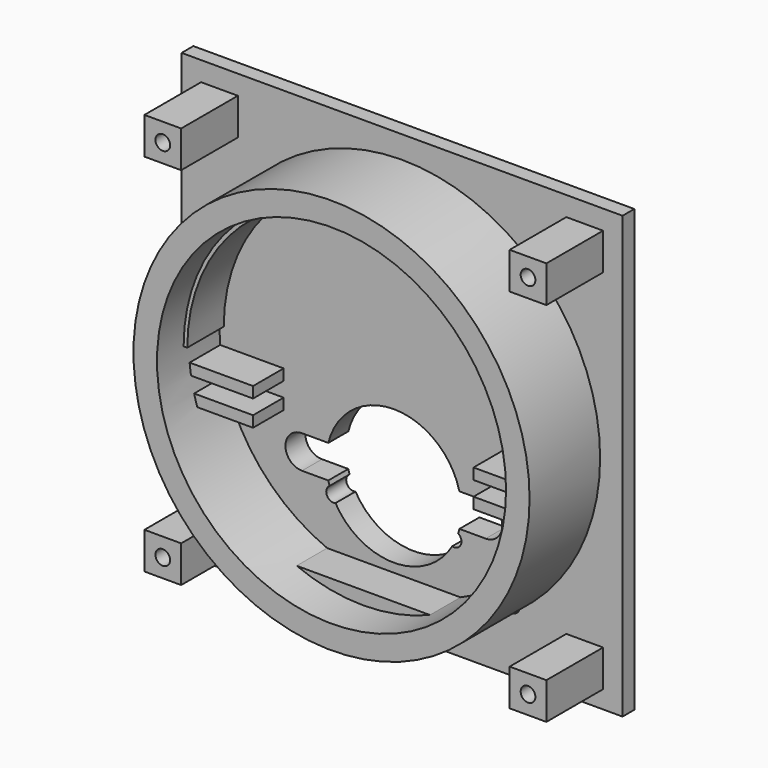
from build123d import *

# Parameters (mm, degrees)
F0_R      = 30.1625
F1_DEPTH  = 4.318
F2_D      = 2.54
F3_DEPTH  = 10.922
F4_R      = 34.2265
F4_R_2    = 30.1625
F5_DEPTH  = 17.78
F0_W      = 76.2
F0_H      = 76.2
F0_W_2    = 6.35
F0_H_2    = 6.35
F8_DEPTH  = 2.54
F10_DEPTH = 9.652
F11_R     = 1.27
F12_DEPTH = 3.048
F7_W      = 25.4
F7_H      = 2.54
F7_W_2    = 12.7
F7_H_2    = 1.905
F13_DEPTH = 8.382
F14_DEPTH = 14.7828
F15_D     = 2.54


with BuildPart() as f1:
    # F0 (on Front) → F1 (new body)
    with BuildSketch(Plane.XZ):
        Circle(F0_R)
        with BuildLine():
            ThreePointArc((-11.329190163, -11.811), (0, -2.9845), (11.329190163, -11.811))
            Line((11.329190163, -11.811), (15.875, -11.811))
            ThreePointArc((15.875, -11.811), (17.8955576272, -12.6479423728), (18.7325, -14.6685))
            ThreePointArc((18.7325, -14.6685), (17.8955576272, -16.6890576272), (15.875, -17.526))
            Line((15.875, -17.526), (11.329190163, -17.526))
            ThreePointArc((11.329190163, -17.526), (0, -26.3525), (-11.329190163, -17.526))
            Line((-11.329190163, -17.526), (-15.875, -17.526))
            ThreePointArc((-15.875, -17.526), (-18.7325, -14.6685), (-15.875, -11.811))
            Line((-15.875, -11.811), (-11.329190163, -11.811))
        make_face(mode=Mode.SUBTRACT)
    extrude(amount=F1_DEPTH)

    # F2 (through all)
    with Locations(Plane(origin=(0, 0, 0), x_dir=(1, 0, 0), z_dir=(0, 1, 0))):
        with Locations((-10.414, 19.3421), (10.414, 19.3421)):
            Hole(F2_D / 2)

    # F0 (on Front) → F3 (cut)
    with BuildSketch(Plane.XZ):
        Circle(F0_R)
        with BuildLine():
            ThreePointArc((-11.329190163, -11.811), (0, -2.9845), (11.329190163, -11.811))
            Line((11.329190163, -11.811), (15.875, -11.811))
            ThreePointArc((15.875, -11.811), (17.8955576272, -12.6479423728), (18.7325, -14.6685))
            ThreePointArc((18.7325, -14.6685), (17.8955576272, -16.6890576272), (15.875, -17.526))
            Line((15.875, -17.526), (11.329190163, -17.526))
            ThreePointArc((11.329190163, -17.526), (0, -26.3525), (-11.329190163, -17.526))
            Line((-11.329190163, -17.526), (-15.875, -17.526))
            ThreePointArc((-15.875, -17.526), (-18.7325, -14.6685), (-15.875, -11.811))
            Line((-15.875, -11.811), (-11.329190163, -11.811))
        make_face(mode=Mode.SUBTRACT)
        Circle(F0_R)
        with BuildLine():
            ThreePointArc((-11.329190163, -11.811), (0, -2.9845), (11.329190163, -11.811))
            Line((11.329190163, -11.811), (15.875, -11.811))
            ThreePointArc((15.875, -11.811), (17.8955576272, -12.6479423728), (18.7325, -14.6685))
            ThreePointArc((18.7325, -14.6685), (17.8955576272, -16.6890576272), (15.875, -17.526))
            Line((15.875, -17.526), (11.329190163, -17.526))
            ThreePointArc((11.329190163, -17.526), (0, -26.3525), (-11.329190163, -17.526))
            Line((-11.329190163, -17.526), (-15.875, -17.526))
            ThreePointArc((-15.875, -17.526), (-18.7325, -14.6685), (-15.875, -11.811))
            Line((-15.875, -11.811), (-11.329190163, -11.811))
        make_face(mode=Mode.SUBTRACT)
        with BuildLine():
            ThreePointArc((-13.0175, -14.6685), (-13.8544423728, -12.6479423728), (-15.875, -11.811))
            Line((-15.875, -11.811), (-15.875, -17.526))
            ThreePointArc((-15.875, -17.526), (-13.8544423728, -16.6890576272), (-13.0175, -14.6685))
        make_face()
        with BuildLine():
            Line((-15.875, -17.526), (-15.875, -11.811))
            ThreePointArc((-15.875, -11.811), (-18.7325, -14.6685), (-15.875, -17.526))
        make_face()
        with BuildLine():
            Line((15.875, -17.526), (15.875, -11.811))
            ThreePointArc((15.875, -11.811), (13.0175, -14.6685), (15.875, -17.526))
        make_face()
        with BuildLine():
            ThreePointArc((18.7325, -14.6685), (17.8955576272, -12.6479423728), (15.875, -11.811))
            Line((15.875, -11.811), (15.875, -17.526))
            ThreePointArc((15.875, -17.526), (17.8955576272, -16.6890576272), (18.7325, -14.6685))
        make_face()
    extrude(amount=-F3_DEPTH, mode=Mode.SUBTRACT)

    # F4 (on Front) → F5 (join)
    with BuildSketch(Plane.XZ):
        Circle(F4_R)
        Circle(F4_R_2, mode=Mode.SUBTRACT)
    extrude(amount=F5_DEPTH)

    # F0 (on Front) → F8 (join)
    with BuildSketch(Plane.XZ):
        Rectangle(F0_W, F0_H)
        with Locations((-31.5595, -31.5595)):
            Rectangle(F0_W_2, F0_H_2, mode=Mode.SUBTRACT)
        with Locations((31.5595, -31.8507122787)):
            Rectangle(F0_W_2, F0_H_2, mode=Mode.SUBTRACT)
        with Locations((-31.5595, 31.5595)):
            Rectangle(F0_W_2, F0_H_2, mode=Mode.SUBTRACT)
        Circle(F0_R, mode=Mode.SUBTRACT)
        with Locations((31.5595, 31.5595)):
            Rectangle(F0_W_2, F0_H_2, mode=Mode.SUBTRACT)
    extrude(amount=F8_DEPTH)

    # F11 (on Front) → F12 (cut)
    with BuildSketch(Plane.XZ):
        with Locations((19.05, 10.8285026)):
            Circle(F11_R)
        with Locations((-19.05, 10.8285026)):
            Circle(F11_R)
        with Locations((-19.05, -27.2714974)):
            Circle(F11_R)
        with Locations((19.05, -27.2714974)):
            Circle(F11_R)
    extrude(amount=F12_DEPTH, mode=Mode.SUBTRACT)

    # F7 (on offset) → F13 (join)
    with BuildSketch(Plane.XZ.offset(2.54)):
        with Locations((0, -29.1465)):
            Rectangle(F7_W, F7_H)
        with Locations((-25.4, -3.937)):
            Rectangle(F7_W_2, F7_H_2)
        with Locations((-25.4, -8.382)):
            Rectangle(F7_W_2, F7_H_2)
        with Locations((25.4, -8.382)):
            Rectangle(F7_W_2, F7_H_2)
        with Locations((25.4, -3.937)):
            Rectangle(F7_W_2, F7_H_2)
    extrude(amount=F13_DEPTH)

    # F0 (on Front) → F14 (join)
    with BuildSketch(Plane.XZ):
        with Locations((-31.5595, -31.5595)):
            Rectangle(F0_W_2, F0_H_2)
        with Locations((-31.5595, 31.5595)):
            Rectangle(F0_W_2, F0_H_2)
        with Locations((31.5595, 31.5595)):
            Rectangle(F0_W_2, F0_H_2)
        with Locations((31.5595, -31.8507122787)):
            Rectangle(F0_W_2, F0_H_2)
    extrude(amount=F14_DEPTH)

    # F15 (through all)
    with Locations(Plane(origin=(0, 0, 0), x_dir=(1, 0, 0), z_dir=(0, 1, 0))):
        with Locations((-31.5595, -31.5595), (31.5595, -31.5595), (-31.5595, 31.5595), (31.5595, 31.8507122787)):
            Hole(F15_D / 2)


with BuildPart() as f10:
    # F9 (on offset) → F10 (new body)
    with BuildSketch(Plane.XZ.offset(2.54)):
        with BuildLine():
            Line((29.6573994599, 0), (30.2923994599, 0))
            ThreePointArc((30.2923994599, 0), (0.1299199818, 30.1273150478), (-30.0325594963, 0))
            Line((-30.0325594963, 0), (-29.3975594963, 0))
            ThreePointArc((-29.3975594963, 0), (0.1299199818, 29.5274794781), (29.6573994599, 0))
        make_face()
    extrude(amount=F10_DEPTH)


solid = Compound([f1.part, f10.part])
